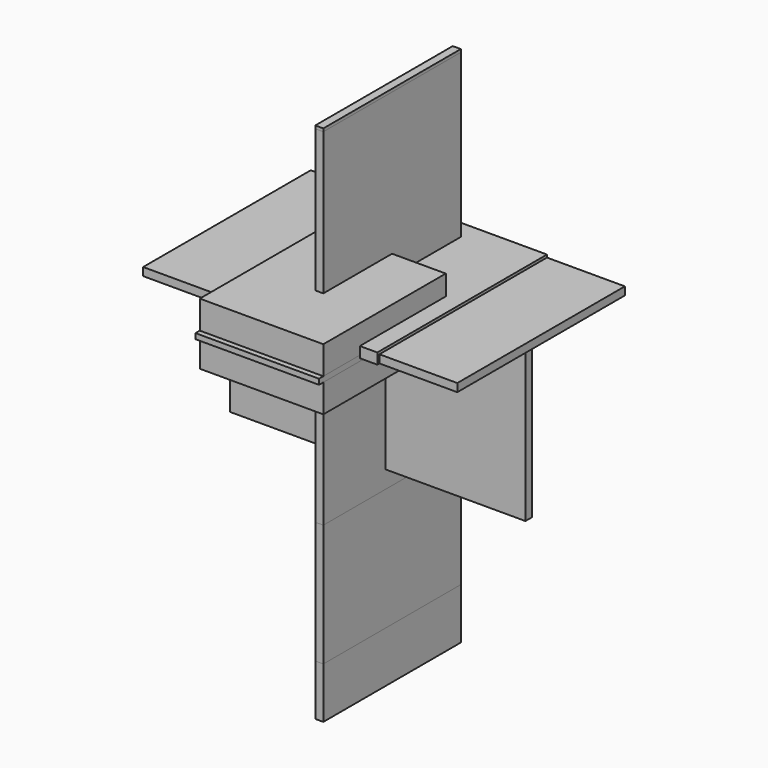
from build123d import *

# Parameters (mm, degrees)
F0_W      = 742.95
F0_H      = 495.3
F1_DEPTH  = 19.05
F2_W      = 698.5
F2_H      = 31.75
F3_DEPTH  = 19.05
F4_W      = 406.4
F4_H      = 819.15
F5_DEPTH  = 19.05
F6_W      = 406.4
F6_H      = 698.5
F7_DEPTH  = 19.05
F8_W      = 698.5
F8_H      = 368.3
F9_DEPTH  = 19.05
F10_W     = 374.65
F10_H     = 501.65
F11_DEPTH = 25.4
F12_W     = 406.4
F12_H     = 819.15
F13_DEPTH = 19.05
F14_W     = 406.4
F14_H     = 819.15
F15_DEPTH = 19.05
F16_W     = 292.1
F16_H     = 146.05
F17_DEPTH = 361.95
F18_W     = 292.1
F18_H     = 12.7
F19_DEPTH = 374.65


with BuildPart() as f1:
    # F0 (on Top) → F1 (new body)
    with BuildSketch(Plane.XY):
        Rectangle(F0_W, F0_H)
    extrude(amount=F1_DEPTH)


with BuildPart() as f3:
    # F2 (on Front) → F3 (new body)
    with BuildSketch(Plane.XZ):
        with Locations((0, -15.875)):
            Rectangle(F2_W, F2_H)
    extrude(amount=F3_DEPTH)


with BuildPart() as f5:
    # F4 (on Right) → F5 (new body)
    with BuildSketch(Plane.YZ):
        with Locations((0, -409.575)):
            Rectangle(F4_W, F4_H)
    extrude(amount=F5_DEPTH)


with BuildPart() as f7:
    # F6 (on Right) → F7 (new body)
    with BuildSketch(Plane.YZ):
        with Locations((0, -349.25)):
            Rectangle(F6_W, F6_H)
    extrude(amount=F7_DEPTH)


with BuildPart() as f9:
    # F8 (on Front) → F9 (new body)
    with BuildSketch(Plane.XZ):
        with Locations((0.437908, -184.15)):
            Rectangle(F8_W, F8_H)
    extrude(amount=F9_DEPTH)


with BuildPart() as f11:
    # F10 (on Top) → F11 (new body)
    with BuildSketch(Plane.XY):
        with Locations((0, -3.175)):
            Rectangle(F10_W, F10_H)
    extrude(amount=F11_DEPTH)


with BuildPart() as f13:
    # F12 (on Right) → F13 (new body)
    with BuildSketch(Plane.YZ):
        with Locations((0, 6.950023)):
            Rectangle(F12_W, F12_H)
    extrude(amount=F13_DEPTH)


with BuildPart() as f15:
    # F14 (on Right) → F15 (new body)
    with BuildSketch(Plane.YZ):
        Rectangle(F14_W, F14_H)
    extrude(amount=F15_DEPTH)


with BuildPart() as f17:
    # F16 (on Front) → F17 (new body)
    with BuildSketch(Plane.XZ):
        Rectangle(F16_W, F16_H)
    extrude(amount=F17_DEPTH)


with BuildPart() as f19:
    # F18 (on Front) → F19 (new body)
    with BuildSketch(Plane.XZ):
        Rectangle(F18_W, F18_H)
    extrude(amount=F19_DEPTH)


solid = Compound([f1.part, f3.part, f5.part, f7.part, f9.part, f11.part, f13.part, f15.part, f17.part, f19.part])
